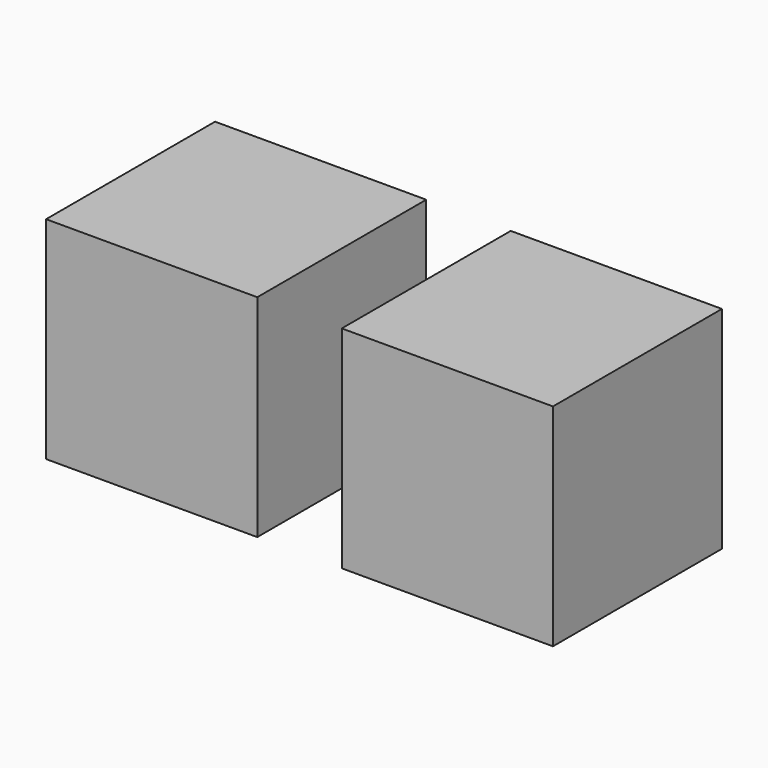
from build123d import *

# Parameters (mm, degrees)
BOX_W        = 10
BOX_H        = 10
BOX_DEPTH    = 10
BOX001_W     = 10
BOX001_H     = 10
BOX001_DEPTH = 10


with BuildPart() as cubo:
    # Box → Box (new body)
    with BuildSketch(Plane.XY):
        with Locations((5, 5)):
            Rectangle(BOX_W, BOX_H)
    extrude(amount=BOX_DEPTH)


with BuildPart() as cubo001:
    # Box001 → Box001 (new body)
    with BuildSketch(Plane(origin=(14, 0, 0), x_dir=(1, 0, 0), z_dir=(0, 0, 1))):
        with Locations((5, 5)):
            Rectangle(BOX001_W, BOX001_H)
    extrude(amount=BOX001_DEPTH)


solid = Compound([cubo.part, cubo001.part])
